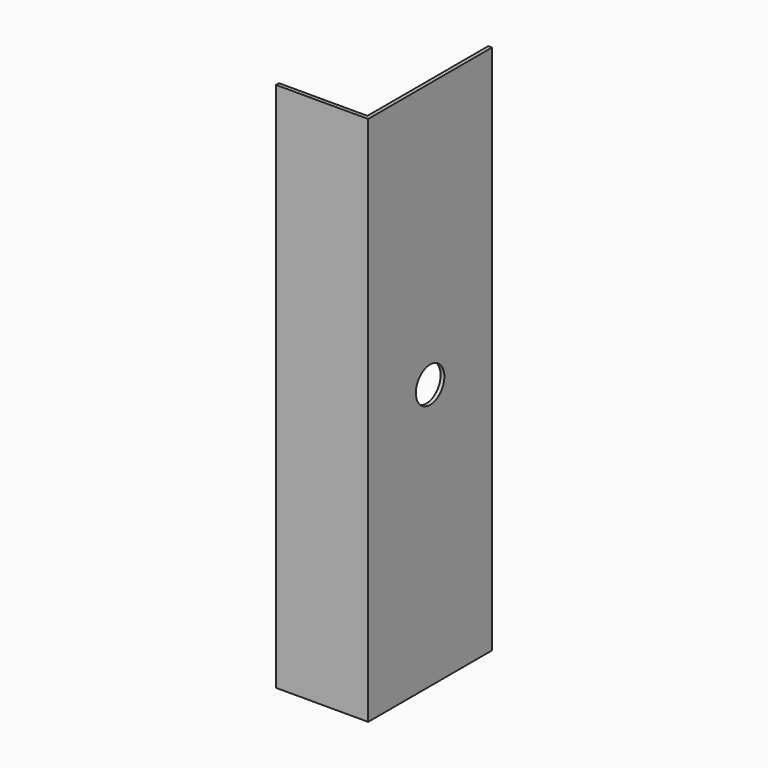
from build123d import *

# Parameters (mm, degrees)
F0_W     = 400
F0_H     = 2400
F1_DEPTH = 17
F2_W     = 700
F2_H     = 2400
F3_DEPTH = 17
F4_R     = 80.472245
F5_DEPTH = 25


with BuildPart() as f1:
    # F0 (on Front) → F1 (new body)
    with BuildSketch(Plane.XZ):
        with Locations((-104.643844, 781.619109)):
            Rectangle(F0_W, F0_H)
    extrude(amount=F1_DEPTH)

    # F2 (on face) → F3 (join)
    with BuildSketch(Plane.YZ.offset(95.356156)):
        with Locations((333, 781.619109)):
            Rectangle(F2_W, F2_H)
    extrude(amount=F3_DEPTH)

    # F4 (on face) → F5 (cut)
    with BuildSketch(Plane.YZ.offset(112.356156)):
        with Locations((333, 781.619109)):
            Circle(F4_R)
    extrude(amount=-F5_DEPTH, mode=Mode.SUBTRACT)


solid = f1.part
